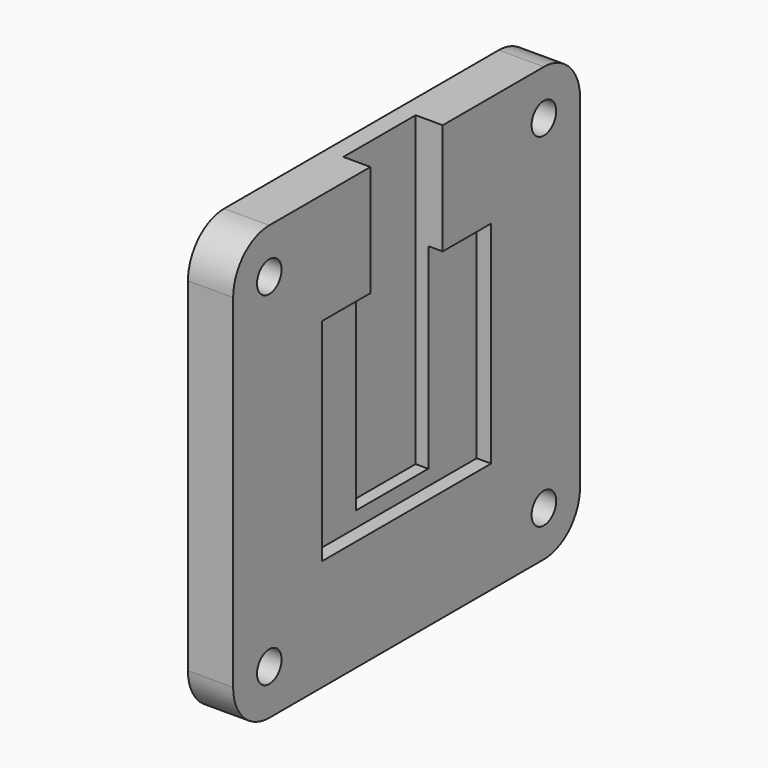
from build123d import *

# Parameters (mm, degrees)
SKETCH105_W     = 48
SKETCH105_H     = 48
SKETCH105_R     = 1.7
PAD082_DEPTH    = 5
SKETCH106_W     = 10
SKETCH106_H     = 50
POCKET012_DEPTH = 3
SKETCH107_W     = 23.4
SKETCH107_H     = 23.4
POCKET013_DEPTH = 1.6
FILLET012_R     = 5
CHAMFER_ANGLE   = 45
CHAMFER_SIZE    = 1.3


with BuildPart() as part:
    # Sketch105 → Pad082 (new body)
    with BuildSketch(Plane.YZ):
        Rectangle(SKETCH105_W, SKETCH105_H)
        with Locations((19, 19)):
            Circle(SKETCH105_R, mode=Mode.SUBTRACT)
        with Locations((19, -19)):
            Circle(SKETCH105_R, mode=Mode.SUBTRACT)
        with Locations((-19, 19)):
            Circle(SKETCH105_R, mode=Mode.SUBTRACT)
        with Locations((-19, -19)):
            Circle(SKETCH105_R, mode=Mode.SUBTRACT)
    extrude(amount=PAD082_DEPTH)

    # Sketch106 (on DatumPlane) → Pocket012 (cut)
    with BuildSketch(Plane.YZ.offset(5)):
        with Locations((0, 15)):
            Rectangle(SKETCH106_W, SKETCH106_H)
    extrude(amount=-POCKET012_DEPTH, mode=Mode.SUBTRACT)

    # Sketch107 (on DatumPlane) → Pocket013 (cut)
    with BuildSketch(Plane.YZ.offset(5)):
        Rectangle(SKETCH107_W, SKETCH107_H)
    extrude(amount=-POCKET013_DEPTH, mode=Mode.SUBTRACT)

    # Fillet012
    fillet012_edges = [part.edges().sort_by_distance(p)[0] for p in [
        (2.5, 24, 24),
        (2.5, -24, 24),
        (2.5, -24, -24),
        (2.5, 24, -24),
    ]]
    fillet(fillet012_edges, radius=FILLET012_R)

    # Chamfer
    chamfer_edges = [part.edges().sort_by_distance(p)[0] for p in [
        (0, 17.3, 19),
        (0, -20.7, 19),
        (0, 17.3, -19),
        (0, -20.7, -19),
    ]]
    chamfer_side = part.faces().sort_by_distance((0, 0, 0))[0]
    chamfer(chamfer_edges, length=CHAMFER_SIZE, angle=CHAMFER_ANGLE, reference=chamfer_side)


solid = part.part
